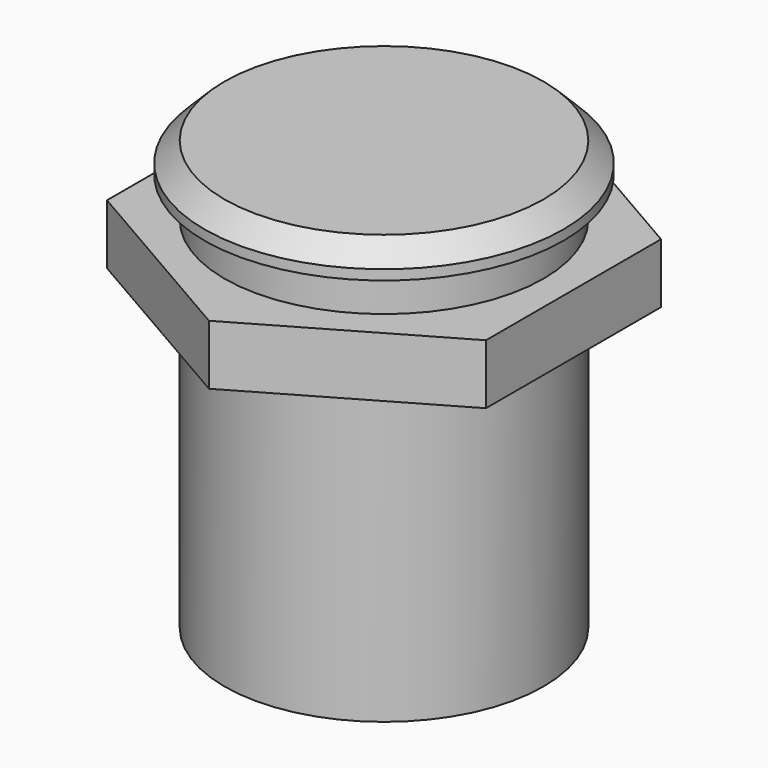
from build123d import *

# Parameters (mm, degrees)
F0_R     = 8
F1_DEPTH = 20
F0_R_2   = 9
F2_DEPTH = 1.5
F3_SIZE  = 1
F6_DEPTH = 3


with BuildPart() as f1:
    # F0 (on Top) → F1 (new body)
    with BuildSketch(Plane.XY):
        Circle(F0_R)
    extrude(amount=-F1_DEPTH)

    # F0 (on Top) → F2 (join)
    with BuildSketch(Plane.XY):
        Circle(F0_R_2)
        Circle(F0_R, mode=Mode.SUBTRACT)
        Circle(F0_R)
    extrude(amount=F2_DEPTH)

    # F3
    f3_edges = [f1.edges().sort_by_distance(p)[0] for p in [
        (-9, 0, 1.5),
    ]]
    chamfer(f3_edges, length=F3_SIZE)

    # F5 (on offset) → F6 (join)
    with BuildSketch(Plane.XY.offset(-2)):
        Polygon((9.5, 5.484828), (0, 10.969655), (-9.5, 5.484828), (-9.5, -5.484828), (0, -10.969655), (9.5, -5.484828), align=None)
    extrude(amount=-F6_DEPTH)


solid = f1.part
